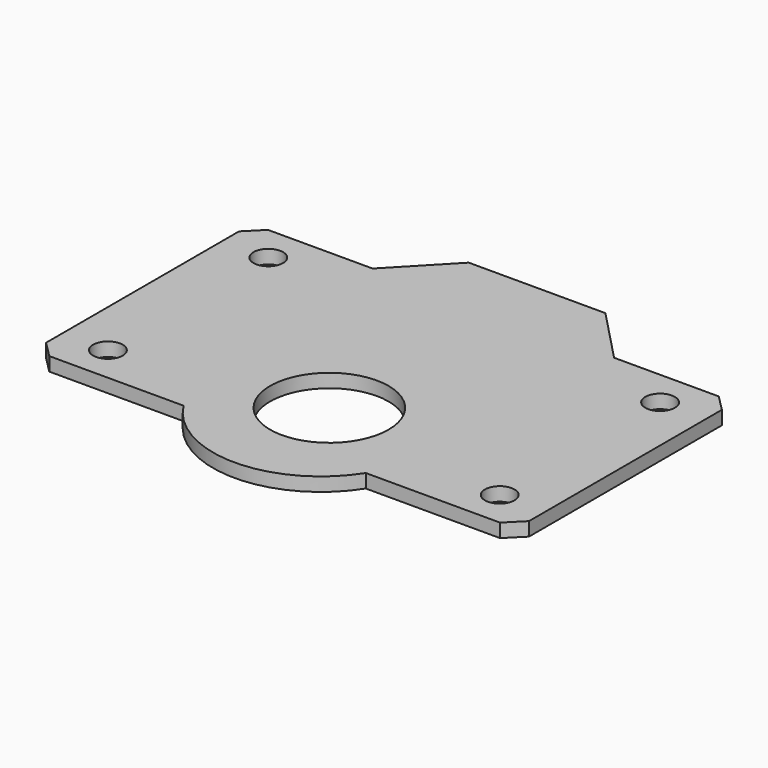
from build123d import *

# Parameters (mm, degrees)
F1_DEPTH = 3
F2_R     = 13
F3_DEPTH = 3.001
F4_R     = 3.25
F5_DEPTH = 3.001


with BuildPart() as f1:
    # F0 (on Top) → F1 (new body)
    with BuildSketch(Plane.XY):
        with BuildLine():
            Line((-26.5, 30), (-49.464466, 30))
            Line((-49.464466, 30), (-53, 26.464466))
            Line((-53, 26.464466), (-53, -26.464466))
            Line((-53, -26.464466), (-49.464466, -30))
            Line((-49.464466, -30), (-20, -30))
            ThreePointArc((-20, -30), (0, -41), (20, -30))
            Line((20, -30), (49.464466, -30))
            Line((49.464466, -30), (53, -26.464466))
            Line((53, -26.464466), (53, 26.464466))
            Line((53, 26.464466), (49.464466, 30))
            Line((49.464466, 30), (26.5, 30))
            Line((26.5, 30), (15, 42))
            Line((15, 42), (-15, 42))
            Line((-15, 42), (-26.5, 30))
        make_face()
    extrude(amount=F1_DEPTH)

    # F2 (on face) → F3 (cut, through all)
    with BuildSketch(Plane.XY.offset(3)):
        with Locations((0, -15)):
            Circle(F2_R)
    extrude(amount=-F3_DEPTH, mode=Mode.SUBTRACT)

    # F4 (on face) → F5 (cut, through all)
    with BuildSketch(Plane.XY.offset(3)):
        with Locations((-43, 22)):
            Circle(F4_R)
        with Locations((-43, -22)):
            Circle(F4_R)
        with Locations((43, 22)):
            Circle(F4_R)
        with Locations((43, -22)):
            Circle(F4_R)
    extrude(amount=-F5_DEPTH, mode=Mode.SUBTRACT)


solid = f1.part
